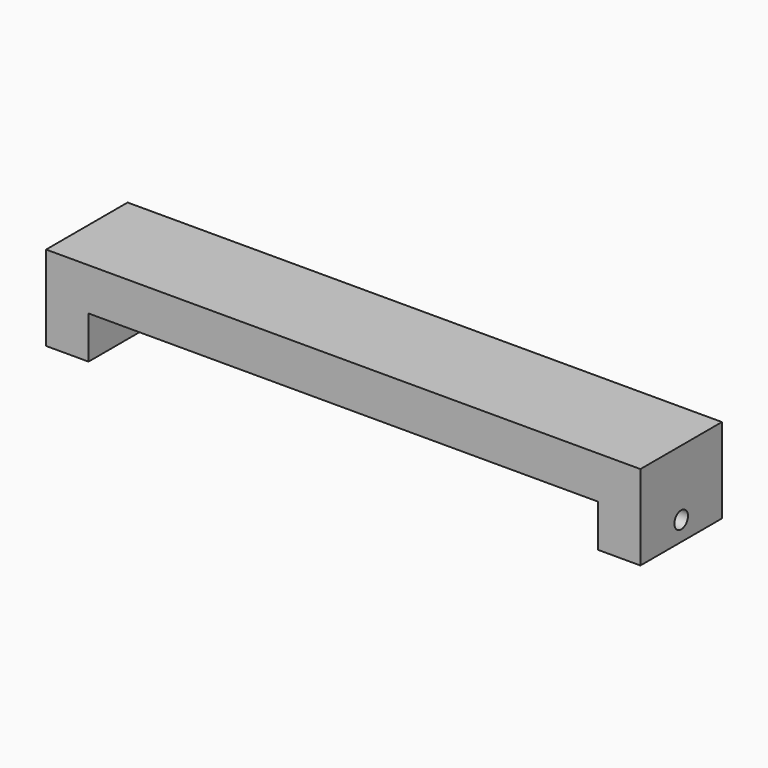
from build123d import *

# Parameters (mm, degrees)
F1_DEPTH = 12
F2_R     = 1
F3_DEPTH = 70


with BuildPart() as f1:
    # F0 (on Front) → F1 (new body)
    with BuildSketch(Plane.XZ):
        Polygon((-35, 5), (-35, -5), (-30, -5), (-30, 0), (30, 0), (30, -5), (35, -5), (35, 5), align=None)
    extrude(amount=F1_DEPTH)

    # F2 (on face) → F3 (cut)
    with BuildSketch(Plane(origin=(-35, 0, 0), x_dir=(0, -1, 0), z_dir=(-1, 0, 0))):
        with Locations((6, -2.7)):
            Circle(F2_R)
    extrude(amount=-F3_DEPTH, mode=Mode.SUBTRACT)


solid = f1.part
